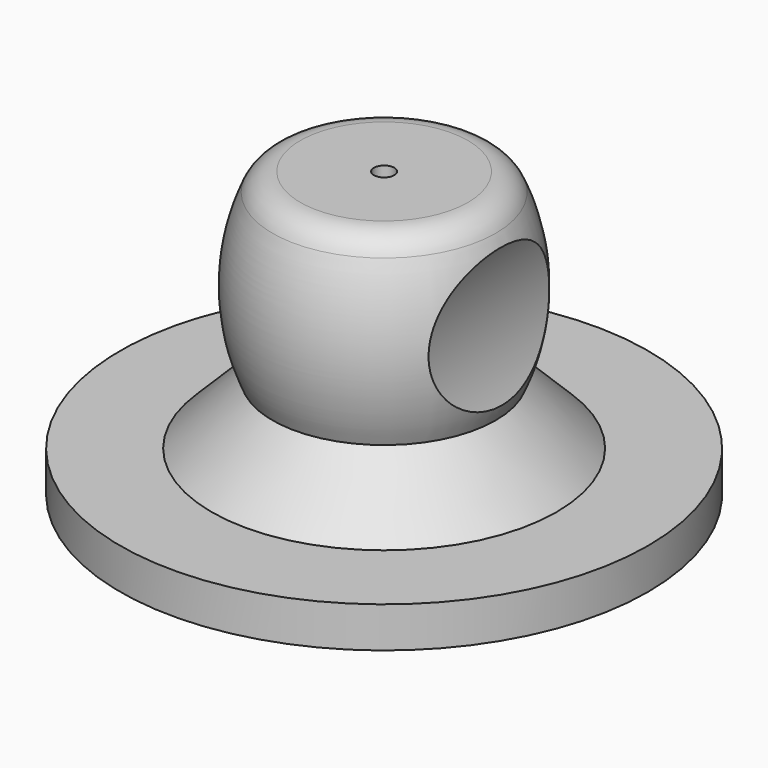
from build123d import *

# Parameters (mm, degrees)
F3_DEPTH      = 5
F3_DEPTH_BACK = 5


with BuildPart() as f1:
    # F0 (on Front) → F1 (revolve)
    with BuildSketch(Plane.XZ):
        with BuildLine():
            Line((0.25, 7), (0.25, 0))
            Line((0.25, 0), (6.5, 0))
            Line((6.5, 0), (6.5, 1))
            Line((6.5, 1), (4.25, 1))
            Line((4.25, 1), (2.75, 2.5))
            ThreePointArc((2.75, 2.5), (3.1793149932, 4.527027027), (2.75, 6.5540540541))
            ThreePointArc((2.75, 6.5540540541), (2.4733345666, 6.8787052332), (2.064397249, 7))
            Line((2.064397249, 7), (0.25, 7))
        make_face()
    revolve(axis=Axis((0, 0, 4.4036353938), (0, 0, 1)))


with BuildPart() as f3:
    # F2 (on Front) → F3 (new body, two sides)
    with BuildSketch(Plane.XZ) as f3_sk:
        with BuildLine():
            Line((4.25, 7.1200682409), (3.25, 7.1200682409))
            ThreePointArc((3.25, 7.1200682409), (2.5801270189, 4.6200682409), (3.25, 2.1200682409))
            Line((3.25, 2.1200682409), (4.25, 2.1200682409))
            Line((4.25, 2.1200682409), (4.25, 7.1200682409))
        make_face()
    extrude(amount=F3_DEPTH)
    extrude(f3_sk.sketch, amount=-F3_DEPTH_BACK)


with BuildPart() as f4_1:
    # F4: instance of F3
    add(f3.part.mirror(Plane.YZ))


with BuildPart() as f1_1:
    add(f1.part)

    # F5: cut F3, F4_1
    add(f3.part, mode=Mode.SUBTRACT)
    add(f4_1.part, mode=Mode.SUBTRACT)


solid = f1_1.part
